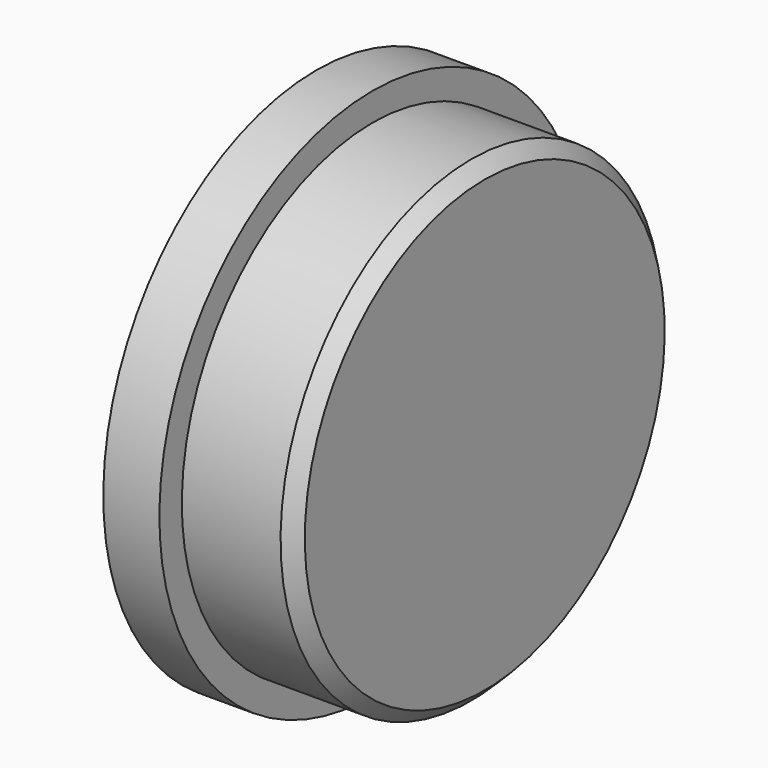
from build123d import *

# Parameters (mm, degrees)
F2_R    = 1.524
F3_SIZE = 0.762
F4_SIZE = 1.524


with BuildPart() as f1:
    # F0 (on Front) → F1 (revolve)
    with BuildSketch(Plane.XZ):
        Polygon((-31.75, 0), (0, 0), (0, 26.9875), (-12.7, 26.9875), (-12.7, 30.1625), (-19.05, 30.1625), (-19.05, 5.55625), (-31.75, 5.55625), align=None)
    revolve(axis=Axis((-15.875, 0, 0), (-1, 0, 0)))

    # F2
    f2_edges = [f1.edges().sort_by_distance(p)[0] for p in [
        (-19.05, 0, -5.55625),
    ]]
    fillet(f2_edges, radius=F2_R)

    # F3
    f3_edges = [f1.edges().sort_by_distance(p)[0] for p in [
        (-31.75, 0, -5.55625),
    ]]
    chamfer(f3_edges, length=F3_SIZE)

    # F4
    f4_edges = [f1.edges().sort_by_distance(p)[0] for p in [
        (0, 0, -26.9875),
    ]]
    chamfer(f4_edges, length=F4_SIZE)


solid = f1.part
